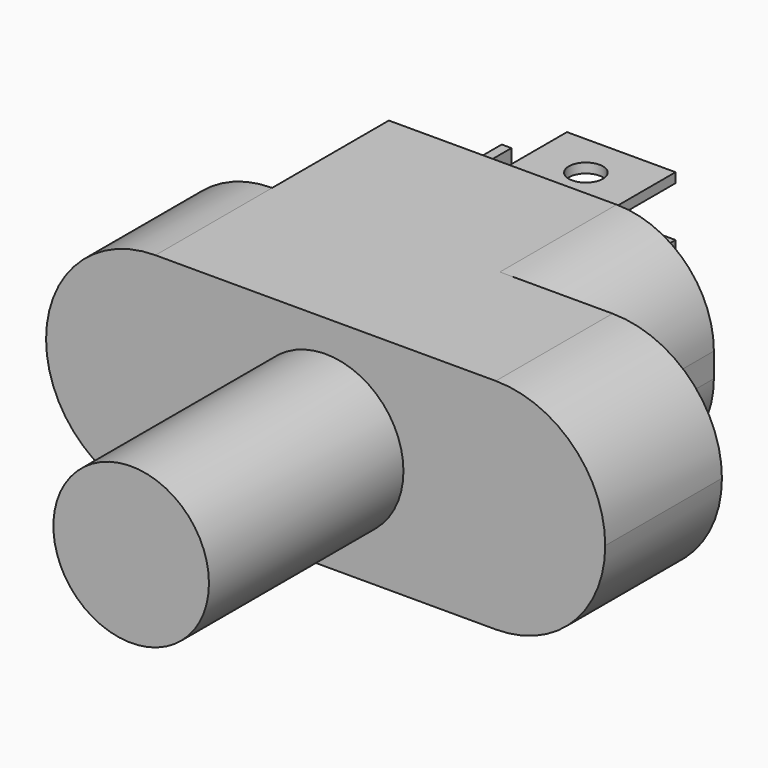
from build123d import *

# Parameters (mm, degrees)
F0_R     = 0.8
F0_R_2   = 3.2
F0_R_3   = 1
F1_DEPTH = 6
F3_DEPTH = 6
F4_W     = 4.4655336533
F4_H     = 0.3993565915
F4_W_2   = 0.3993565915
F4_H_2   = 4.4655336533
F5_DEPTH = 4.5
F6_R     = 0.7
F7_DEPTH = 5
F8_DEPTH = 10


with BuildPart() as f1:
    # F0 (on Front) → F1 (new body)
    with BuildSketch(Plane.XZ):
        with BuildLine():
            Line((-7, -4.5), (7, -4.5))
            ThreePointArc((7, -4.5), (10.1819805153, -3.1819805153), (11.5, 0))
            ThreePointArc((11.5, 0), (10.1819805153, 3.1819805153), (7, 4.5))
            Line((7, 4.5), (-7, 4.5))
            ThreePointArc((-7, 4.5), (-10.1819805153, 3.1819805153), (-11.5, 0))
            ThreePointArc((-11.5, 0), (-10.1819805153, -3.1819805153), (-7, -4.5))
        make_face()
        with Locations((-9, 0)):
            Circle(F0_R, mode=Mode.SUBTRACT)
        Circle(F0_R_2, mode=Mode.SUBTRACT)
        with Locations((9, 0)):
            Circle(F0_R, mode=Mode.SUBTRACT)
        Circle(F0_R_2)
        Circle(F0_R_3, mode=Mode.SUBTRACT)
        Circle(F0_R_3)
        with Locations((9, 0)):
            Circle(F0_R)
        with Locations((-9, 0)):
            Circle(F0_R)
    extrude(amount=-F1_DEPTH)

    # F2 (on face) → F3 (join)
    with BuildSketch(Plane(origin=(0, 6, 0), x_dir=(-1, 0, 0), z_dir=(0, 1, 0))):
        with BuildLine():
            Line((7, 4.5), (-2.3691008836, 4.5))
            ThreePointArc((-2.3691008836, 4.5), (-5.1975280083, 3.3284271247), (-6.3691008836, 0.5))
            Line((-6.3691008836, 0.5), (-6.3691008836, -0.5))
            ThreePointArc((-6.3691008836, -0.5), (-5.1975280083, -3.3284271247), (-2.3691008836, -4.5))
            Line((-2.3691008836, -4.5), (7, -4.5))
            Line((7, -4.5), (7, 4.5))
        make_face()
    extrude(amount=F3_DEPTH)

    # F4 (on face) → F5 (join)
    with BuildSketch(Plane(origin=(0, 12, 0), x_dir=(-1, 0, 0), z_dir=(0, 1, 0))):
        with Locations((1.0412741685, 3.2637477852)):
            Rectangle(F4_W, F4_H)
        with Locations((1.0412741685, 0.8087011712)):
            Rectangle(F4_W, F4_H)
        with Locations((5.7582546142, -0.0916777644)):
            Rectangle(F4_W_2, F4_H_2)
    extrude(amount=F5_DEPTH)

    # F6 (on face) → F7 (cut)
    with BuildSketch(Plane.XY.offset(3.463426081)):
        with Locations((-1.0412741685, 14.6806975827)):
            Circle(F6_R)
    extrude(amount=-F7_DEPTH, mode=Mode.SUBTRACT)

    # F0 (on Front) → F8 (join)
    with BuildSketch(Plane.XZ):
        Circle(F0_R_2)
        Circle(F0_R_3, mode=Mode.SUBTRACT)
        Circle(F0_R_3)
    extrude(amount=F8_DEPTH)


solid = f1.part
